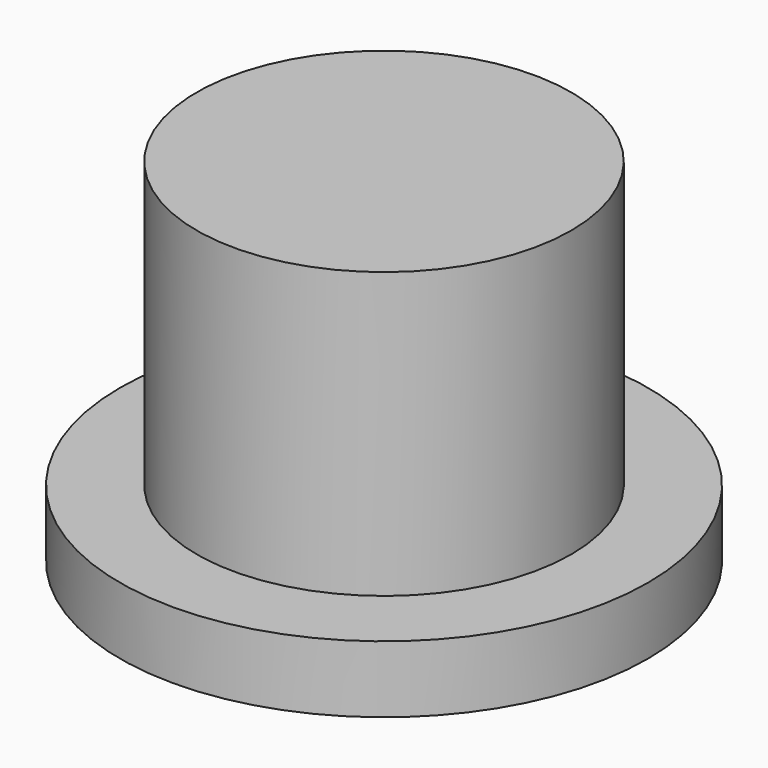
from build123d import *

# Parameters (mm, degrees)
F2_R     = 4.2291
F3_DEPTH = 10.16


with BuildPart() as f1:
    # F0 (on Front) → F1 (revolve)
    with BuildSketch(Plane.XZ):
        Polygon((6.7564, 12.7), (0, 12.7), (0, 0), (9.525, 0), (9.525, 2.413), (6.7564, 2.413), align=None)
    revolve(axis=Axis((0, 0, 6.35), (0, 0, 1)))

    # F2 (on face) → F3 (cut)
    with BuildSketch(Plane(origin=(0, 0, 0), x_dir=(1, 0, 0), z_dir=(0, 0, -1))):
        Circle(F2_R)
    extrude(amount=-F3_DEPTH, mode=Mode.SUBTRACT)


solid = f1.part
